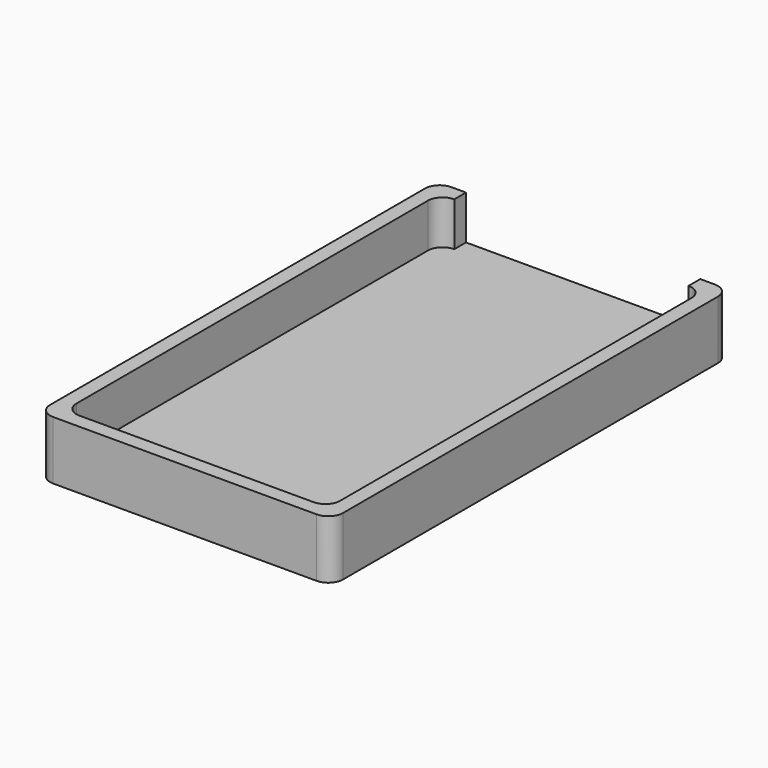
from build123d import *

# Parameters (mm, degrees)
F1_DEPTH = 20
F0_W     = 80
F0_H     = 5
F2_DEPTH = 5


with BuildPart() as f1:
    # F0 (on Top) → F1 (new body)
    with BuildSketch(Plane.XY):
        with BuildLine():
            ThreePointArc((-50, -80), (-48.535534, -83.535534), (-45, -85))
            Line((-45, -85), (45, -85))
            ThreePointArc((45, -85), (48.535534, -83.535534), (50, -80))
            Line((50, -80), (50, 80))
            ThreePointArc((50, 80), (48.535534, 83.535534), (45, 85))
            Line((45, 85), (40, 85))
            Line((40, 85), (40, 80))
            ThreePointArc((40, 80), (43.535534, 78.535534), (45, 75))
            Line((45, 75), (45, -75))
            ThreePointArc((45, -75), (43.535534, -78.535534), (40, -80))
            Line((40, -80), (-40, -80))
            ThreePointArc((-40, -80), (-43.535534, -78.535534), (-45, -75))
            Line((-45, -75), (-45, 75))
            ThreePointArc((-45, 75), (-43.535534, 78.535534), (-40, 80))
            Line((-40, 80), (-40, 85))
            Line((-40, 85), (-45, 85))
            ThreePointArc((-45, 85), (-48.535534, 83.535534), (-50, 80))
            Line((-50, 80), (-50, -80))
        make_face()
    extrude(amount=F1_DEPTH)

    # F0 (on Top) → F2 (join)
    with BuildSketch(Plane.XY):
        with BuildLine():
            Line((40, 80), (-40, 80))
            ThreePointArc((-40, 80), (-43.535534, 78.535534), (-45, 75))
            Line((-45, 75), (-45, -75))
            ThreePointArc((-45, -75), (-43.535534, -78.535534), (-40, -80))
            Line((-40, -80), (40, -80))
            ThreePointArc((40, -80), (43.535534, -78.535534), (45, -75))
            Line((45, -75), (45, 75))
            ThreePointArc((45, 75), (43.535534, 78.535534), (40, 80))
        make_face()
        with Locations((0, 82.5)):
            Rectangle(F0_W, F0_H)
    extrude(amount=F2_DEPTH)


solid = f1.part
